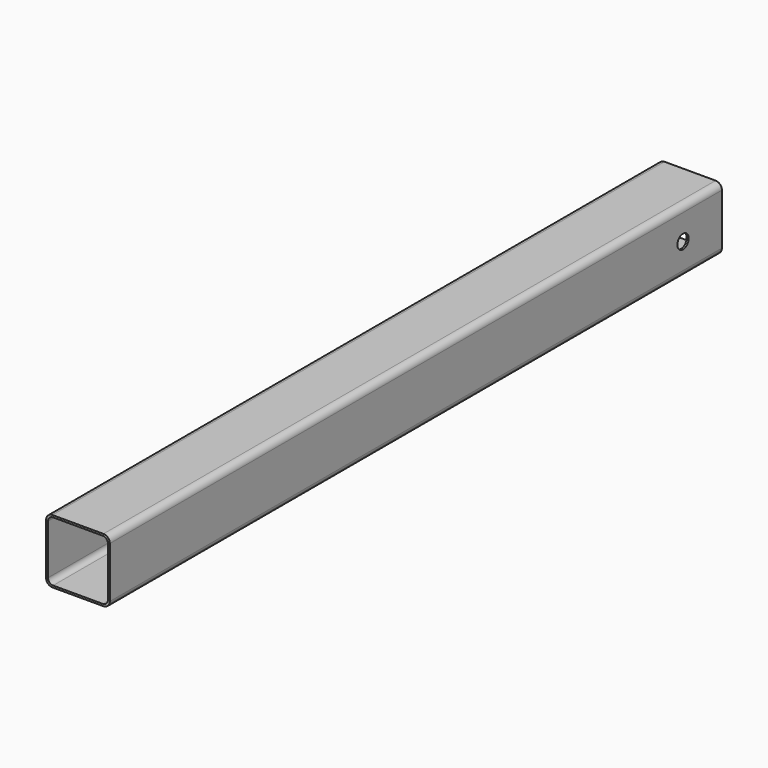
from build123d import *

# Parameters (mm, degrees)
F1_DEPTH = 600
F2_R     = 5.5
F3_DEPTH = 100


with BuildPart() as f1:
    # F0 (on Front) → F1 (new body)
    with BuildSketch(Plane.XZ):
        with BuildLine():
            ThreePointArc((2.020508, 5), (3.484974, 1.464466), (7.020508, 0))
            Line((7.020508, 0), (47.020508, 0))
            ThreePointArc((47.020508, 0), (50.556042, 1.464466), (52.020508, 5))
            Line((52.020508, 5), (52.020508, 45))
            ThreePointArc((52.020508, 45), (50.556042, 48.535534), (47.020508, 50))
            Line((47.020508, 50), (7.020508, 50))
            ThreePointArc((7.020508, 50), (3.484974, 48.535534), (2.020508, 45))
            Line((2.020508, 45), (2.020508, 5))
        make_face()
        with BuildLine():
            ThreePointArc((7.520508, 1.5), (4.692081, 2.671573), (3.520508, 5.5))
            Line((3.520508, 5.5), (3.520508, 44.5))
            ThreePointArc((3.520508, 44.5), (4.692081, 47.328427), (7.520508, 48.5))
            Line((7.520508, 48.5), (46.520508, 48.5))
            ThreePointArc((46.520508, 48.5), (49.348935, 47.328427), (50.520508, 44.5))
            Line((50.520508, 44.5), (50.520508, 5.5))
            ThreePointArc((50.520508, 5.5), (49.348935, 2.671573), (46.520508, 1.5))
            Line((46.520508, 1.5), (7.520508, 1.5))
        make_face(mode=Mode.SUBTRACT)
    extrude(amount=F1_DEPTH)

    # F2 (on face) → F3 (cut)
    with BuildSketch(Plane.YZ.offset(52.020508)):
        with Locations((-38.1458, 25)):
            Circle(F2_R)
    extrude(amount=-F3_DEPTH, mode=Mode.SUBTRACT)


solid = f1.part
